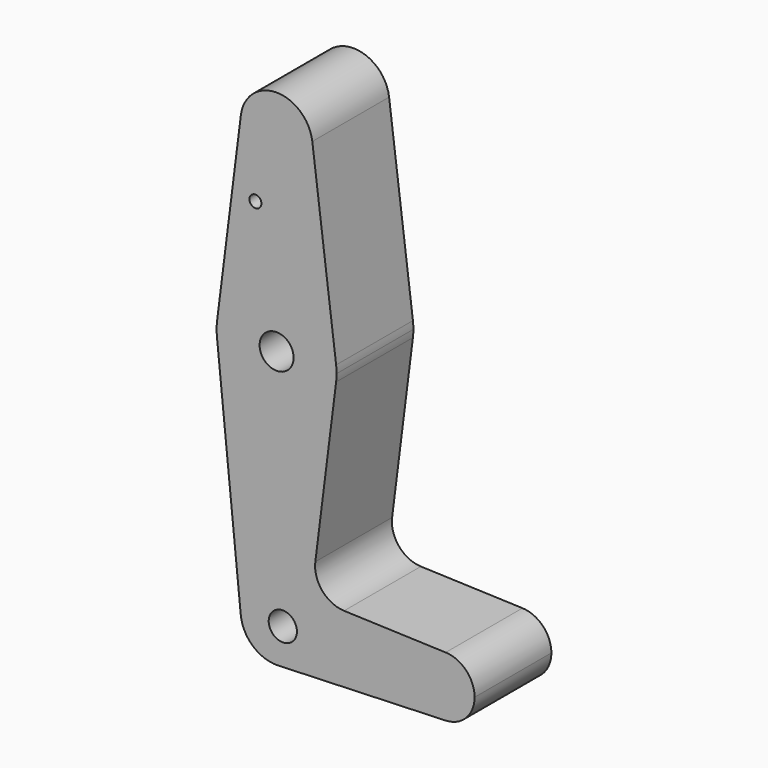
from build123d import *

# Parameters (mm, degrees)
F0_R     = 1.5875
F0_R_2   = 4.501667
F0_R_3   = 3.73465
F1_DEPTH = 25.4


with BuildPart() as f1:
    # F0 (on Front) → F1 (new body)
    with BuildSketch(Plane.XZ):
        with BuildLine():
            ThreePointArc((-9.450293, 51.990625), (-0.596483, 41.293695), (9.525, 50.8))
            ThreePointArc((9.525, 50.8), (9.506305, 51.396483), (9.450293, 51.990625))
            ThreePointArc((9.450293, 51.990625), (0, 60.325), (-9.450293, 51.990625))
        make_face()
        with BuildLine():
            ThreePointArc((9.450293, 51.990625), (9.506305, 51.396483), (9.525, 50.8))
            ThreePointArc((9.525, 50.8), (-0.596483, 41.293695), (-9.450293, 51.990625))
            Line((-9.450293, 51.990625), (-15.750488, 1.984375))
            ThreePointArc((-15.750488, 1.984375), (0, 15.875), (15.750488, 1.984375))
            Line((15.750488, 1.984375), (9.450293, 51.990625))
        make_face()
        with Locations((-5.595155, 33.142054)):
            Circle(F0_R, mode=Mode.SUBTRACT)
        with BuildLine():
            ThreePointArc((15.875, 0), (15.843841, 0.994139), (15.750488, 1.984375))
            ThreePointArc((15.750488, 1.984375), (0, 15.875), (-15.750488, 1.984375))
            Line((-15.750488, 1.984375), (-15.750488, -1.984375))
            ThreePointArc((-15.750488, -1.984375), (0, -15.875), (15.750488, -1.984375))
            ThreePointArc((15.750488, -1.984375), (15.843841, -0.994139), (15.875, 0))
        make_face()
        Circle(F0_R_2, mode=Mode.SUBTRACT)
        with BuildLine():
            Line((-15.750488, -1.984375), (-15.750488, 1.984375))
            ThreePointArc((-15.750488, 1.984375), (-15.873744, 0.199705), (-15.795426, -1.5875))
            ThreePointArc((-15.795426, -1.5875), (-15.774205, -1.786079), (-15.750488, -1.984375))
        make_face()
        with BuildLine():
            ThreePointArc((-15.750488, -1.984375), (-15.774205, -1.786079), (-15.795426, -1.5875))
            Line((-15.795426, -1.5875), (-9.477255, -64.4525))
            ThreePointArc((-9.477255, -64.4525), (-0.476848, -53.986944), (9.525, -63.5))
            ThreePointArc((9.525, -63.5), (6.854408, -70.113827), (0.340179, -73.018923))
            Line((0.340179, -73.018923), (44.733482, -71.432436))
            ThreePointArc((44.733482, -71.432436), (36.5125, -63.5), (44.733482, -55.567564))
            Line((44.733482, -55.567564), (17.850784, -54.606855))
            ThreePointArc((17.850784, -54.606855), (12.079103, -51.812958), (10.246875, -45.667951))
            Line((10.246875, -45.667951), (15.750488, -1.984375))
            ThreePointArc((15.750488, -1.984375), (0, -15.875), (-15.750488, -1.984375))
        make_face()
        with BuildLine():
            ThreePointArc((9.525, -63.5), (-0.476848, -53.986944), (-9.477255, -64.4525))
            ThreePointArc((-9.477255, -64.4525), (-6.262383, -70.67692), (0.340179, -73.018923))
            ThreePointArc((0.340179, -73.018923), (6.854408, -70.113827), (9.525, -63.5))
        make_face()
        with Locations((1.643592, -63.5)):
            Circle(F0_R_3, mode=Mode.SUBTRACT)
        with BuildLine():
            ThreePointArc((44.733482, -55.567564), (36.5125, -63.5), (44.733482, -71.432436))
            ThreePointArc((44.733482, -71.432436), (50.162007, -69.011523), (52.3875, -63.5))
            ThreePointArc((52.3875, -63.5), (50.162007, -57.988477), (44.733482, -55.567564))
        make_face()
    extrude(amount=F1_DEPTH)


solid = f1.part
